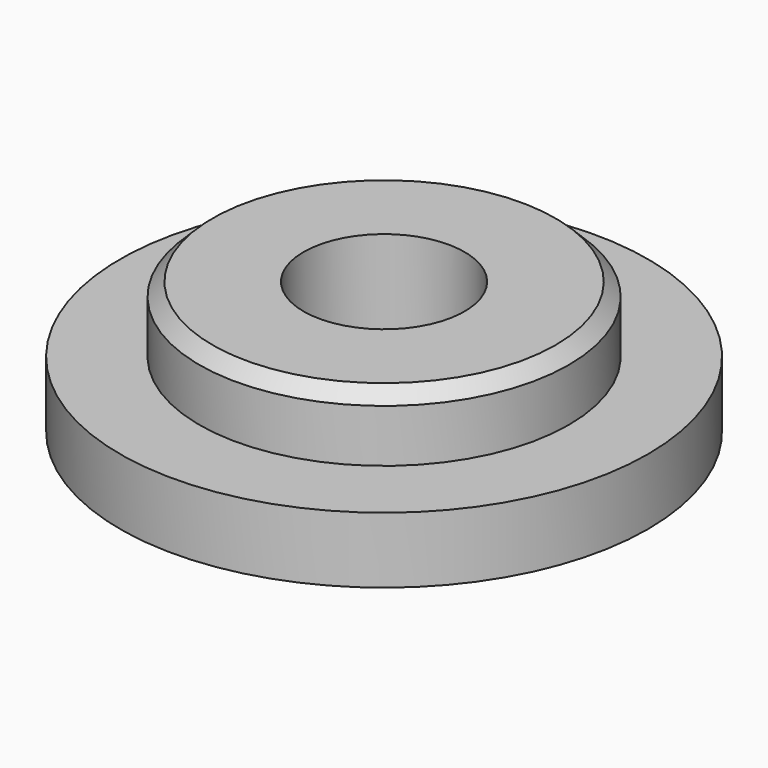
from build123d import *

# Parameters (mm, degrees)
F0_R     = 20
F1_DEPTH = 5
F2_R     = 14
F3_DEPTH = 5
F5_D     = 12.2
F6_SIZE  = 1


with BuildPart() as f1:
    # F0 (on Top) → F1 (new body)
    with BuildSketch(Plane.XY):
        Circle(F0_R)
    extrude(amount=F1_DEPTH)

    # F2 (on face) → F3 (join)
    with BuildSketch(Plane.XY.offset(5)):
        Circle(F2_R)
    extrude(amount=F3_DEPTH)

    # F5 (through all)
    with Locations(Plane(origin=(0, 0, 0), x_dir=(1, 0, 0), z_dir=(0, 0, -1))):
        with Locations((0, 0)):
            Hole(F5_D / 2)

    # F6
    f6_edges = [f1.edges().sort_by_distance(p)[0] for p in [
        (-14, 0, 10),
    ]]
    chamfer(f6_edges, length=F6_SIZE)


solid = f1.part
